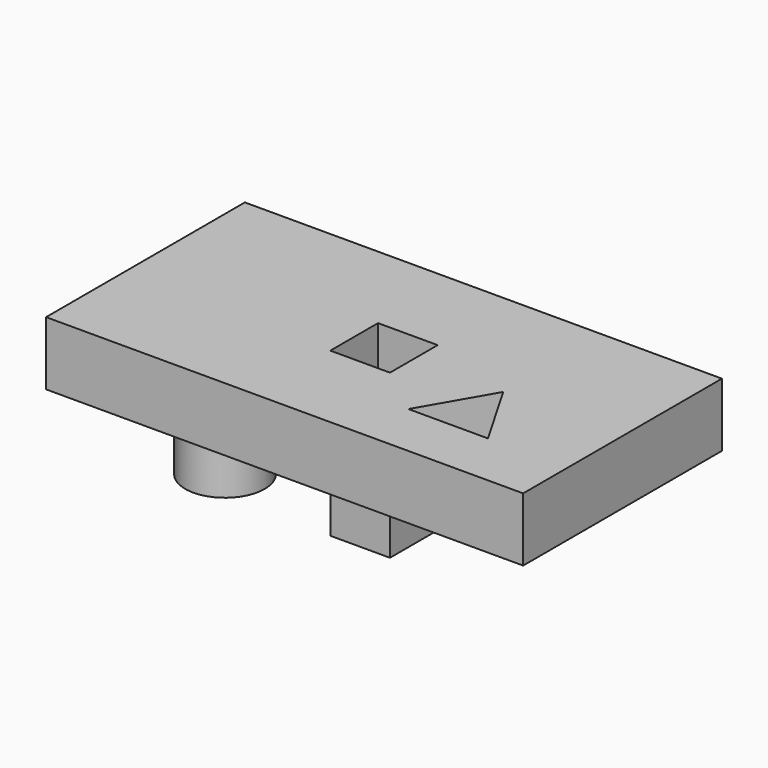
from build123d import *

# Parameters (mm, degrees)
F0_W     = 152.4
F0_H     = 79.375
F1_DEPTH = 20.32
F2_W     = 19.05
F2_H     = 19.05
F3_DEPTH = 52.07
F4_DEPTH = 20.32
F5_R     = 12.7
F6_DEPTH = 52.07
F8_DEPTH = 20.32


with BuildPart() as f1:
    # F0 (on Top) → F1 (new body)
    with BuildSketch(Plane.XY):
        with Locations((-31.75, 0)):
            Rectangle(F0_W, F0_H)
    extrude(amount=F1_DEPTH)

    # F2 (on face) → F3 (join)
    with BuildSketch(Plane.XY.offset(20.32)):
        with Locations((-31.75, 0)):
            Rectangle(F2_W, F2_H)
    extrude(amount=-F3_DEPTH)

    # F2 (on face) → F4 (cut)
    with BuildSketch(Plane.XY.offset(20.32)):
        with Locations((-31.75, 0)):
            Rectangle(F2_W, F2_H)
    extrude(amount=-F4_DEPTH, mode=Mode.SUBTRACT)

    # F5 (on face) → F6 (join)
    with BuildSketch(Plane.XY.offset(20.32)):
        with Locations((-82.55, 0)):
            Circle(F5_R)
    extrude(amount=-F6_DEPTH)

    # F7 (on face) → F8 (cut)
    with BuildSketch(Plane.XY.offset(20.32)):
        Polygon((19.05, -21.997045), (6.35, 0), (-6.35, -21.997045), align=None)
    extrude(amount=-F8_DEPTH, mode=Mode.SUBTRACT)


solid = f1.part
